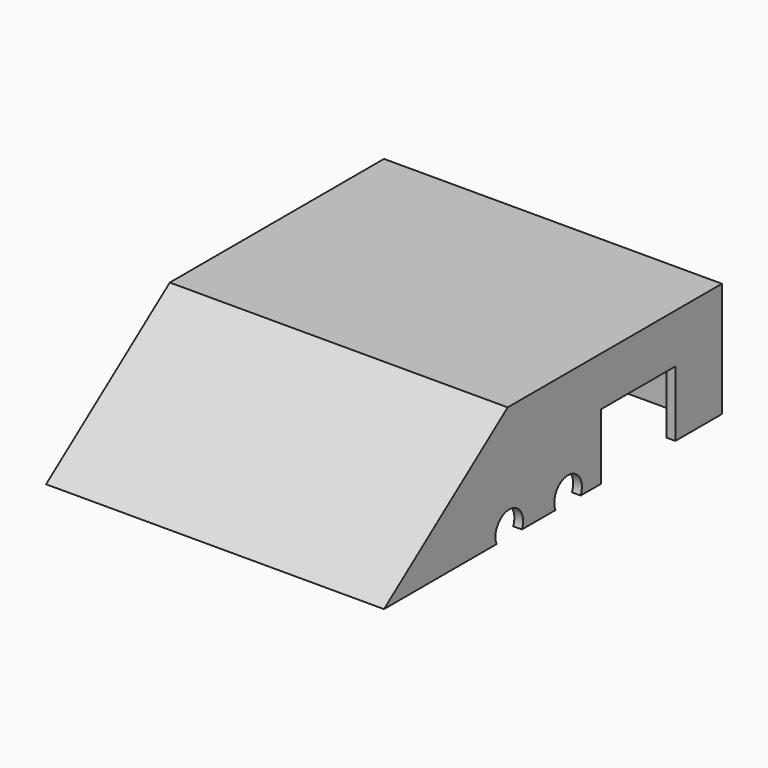
from build123d import *

# Parameters (mm, degrees)
PAD001_DEPTH    = 30
POCKET002_DEPTH = 15
SKETCH010_R     = 2.951076
SKETCH010_W     = 16.720002
SKETCH010_H     = 13.459998
POCKET003_DEPTH = 5
SKETCH011_R     = 3.068583
SKETCH011_W     = 16.509998
SKETCH011_H     = 13.460002
POCKET004_DEPTH = 5


with BuildPart() as part:
    # Sketch008 → Pad001 (new body, symmetric)
    with BuildSketch(Plane.YZ):
        Polygon((-37.5, 10), (37.5, 10), (37.5, 30.376934), (-10.046035, 30.376934), align=None)
    extrude(amount=PAD001_DEPTH, both=True)

    # Sketch009 (on Face1 of Pad001) → Pocket002 (cut)
    with BuildSketch(Plane.YX.offset(-10)):
        with BuildLine():
            Line((-16.668194, 25.274987), (-16.668194, -26.160018))
            ThreePointArc((-16.668194, -26.160018), (-15.924248, -27.956072), (-14.128194, -28.700018))
            Line((-14.128194, -28.700018), (31.591806, -28.700018))
            ThreePointArc((31.591806, -28.700018), (33.387861, -27.956083), (34.131806, -26.160032))
            Line((34.131806, -26.160032), (34.131806, 25.909982))
            ThreePointArc((34.131806, 25.909982), (33.38786, 27.706037), (31.591806, 28.449982))
            Line((-13.493194, 28.449982), (31.591806, 28.449982))
            ThreePointArc((-13.493194, 28.449982), (-15.738253, 27.520045), (-16.668194, 25.274987))
        make_face()
    extrude(amount=-POCKET002_DEPTH, mode=Mode.SUBTRACT)

    # Sketch010 (on Face3 of Pocket002) → Pocket003 (cut)
    with BuildSketch(Plane(origin=(-30, 0, 0), x_dir=(0, 1, 0), z_dir=(-1, 0, 0))):
        with Locations((-9.634073, -10.729566)):
            Circle(SKETCH010_R)
        with Locations((19.018807, -14.92554)):
            Rectangle(SKETCH010_W, SKETCH010_H)
    extrude(amount=-POCKET003_DEPTH, mode=Mode.SUBTRACT)

    # Sketch011 (on Face14 of Pocket003) → Pocket004 (cut)
    with BuildSketch(Plane.YZ.offset(30)):
        with Locations((3.356387, 11.259916)):
            Circle(SKETCH011_R)
        with Locations((-9.699885, 11.221059)):
            Circle(SKETCH011_R)
        with Locations((18.913807, 14.92554)):
            Rectangle(SKETCH011_W, SKETCH011_H)
    extrude(amount=-POCKET004_DEPTH, mode=Mode.SUBTRACT)


solid = part.part
